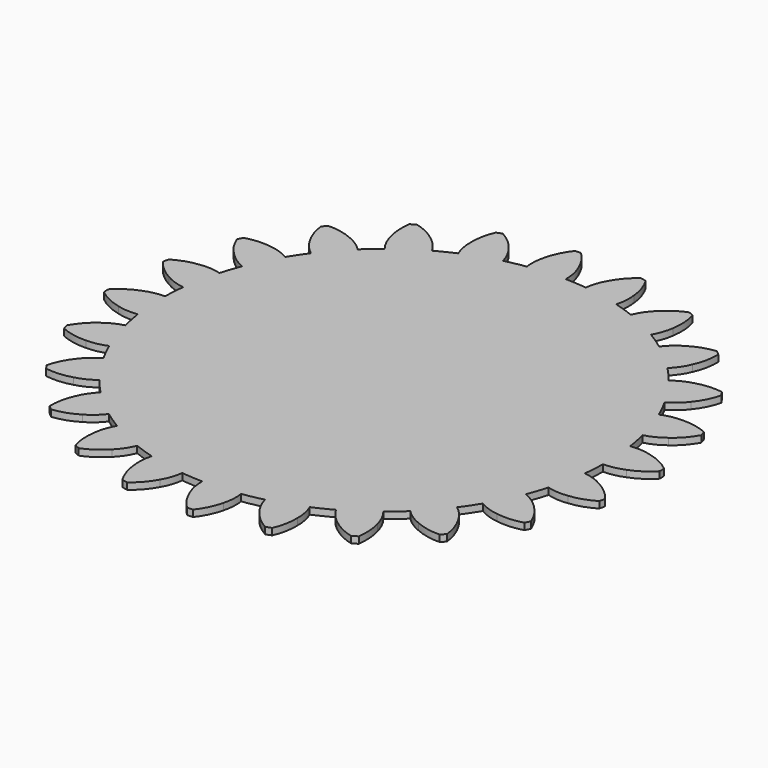
from build123d import *

# Parameters (mm, degrees)
F1_DEPTH = 7.62
F2_COUNT = 24


with BuildPart() as f1:
    # F0 (on Top) → F1 (new body)
    with BuildSketch(Plane.XY):
        with BuildLine():
            ThreePointArc((-38.0043018625, 253.1870869214), (-167.0599202501, -194.0077601279), (256.023491, 0))
            ThreePointArc((256.023491, 0), (182.6661330679, 179.3909467444), (4.6316234166, 255.9815931046))
            ThreePointArc((4.6316234166, 255.9815931046), (-16.7447374678, 255.475325053), (-38.0043018625, 253.1870869214))
        make_face()
        with BuildLine():
            ThreePointArc((-38.0043018625, 253.1870869214), (-16.7447374678, 255.475325053), (4.6316234166, 255.9815931046))
            ThreePointArc((4.6316234166, 255.9815931046), (3.5119115365, 267.8775884317), (0, 279.2984))
            ThreePointArc((0, 279.2984), (-6.878254376, 292.7475954789), (-16.5513599493, 304.350279257))
            ThreePointArc((-16.5513599493, 304.350279257), (-19.9387331888, 304.2062828603), (-23.315922282, 303.9069064173))
            ThreePointArc((-23.315922282, 303.9069064173), (-31.3918189631, 291.1408915699), (-36.4557566452, 276.9089634699))
            ThreePointArc((-36.4557566452, 276.9089634699), (-38.4469082456, 265.1274620876), (-38.0043018625, 253.1870869214))
        make_face()
    extrude(amount=F1_DEPTH)

    # F2: F1 ×24 about axis
    f2_axis = Axis((0, 0, 0), (0, 0, -1))


with BuildPart() as f1_1:
    add(f1.part)
    for i in range(1, F2_COUNT):
        add(f1.part.rotate(f2_axis, i * 360 / F2_COUNT))


solid = f1_1.part
